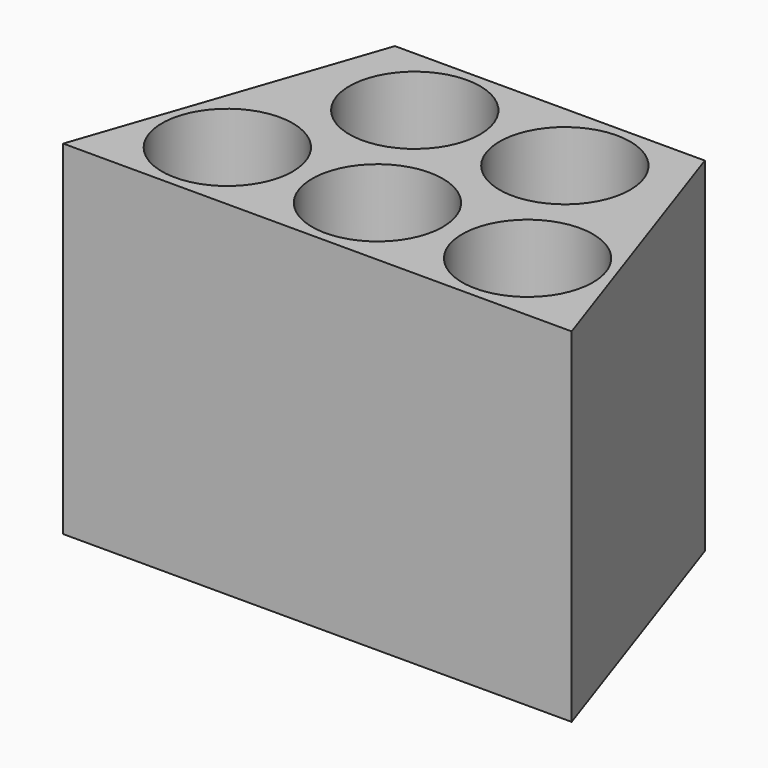
from build123d import *

# Parameters (mm, degrees)
SKETCH_R     = 13.5
PAD_DEPTH    = 71
PAD001_DEPTH = 3


with BuildPart() as body:
    # Sketch → Pad (new body)
    with BuildSketch(Plane.XY):
        Polygon((-52.5, -30), (52.5, -30), (32, 30), (-32, 30), align=None)
        with Locations((-15.5, 14.5)):
            Circle(SKETCH_R, mode=Mode.SUBTRACT)
        with Locations((15.5, 14.5)):
            Circle(SKETCH_R, mode=Mode.SUBTRACT)
        with Locations((31, -14.5)):
            Circle(SKETCH_R, mode=Mode.SUBTRACT)
        with Locations((0, -14.5)):
            Circle(SKETCH_R, mode=Mode.SUBTRACT)
        with Locations((-31, -14.5)):
            Circle(SKETCH_R, mode=Mode.SUBTRACT)
    extrude(amount=PAD_DEPTH)


with BuildPart() as body001:
    # Sketch001 → Pad001 (new body)
    with BuildSketch(Plane.XY):
        with BuildLine():
            ThreePointArc((-31.593551, 5.426425), (-41.014266, -17.620126), (-16.500017, -21.972711))
            Line((-10.500017, -21.972711), (-16.500017, -21.972711))
            ThreePointArc((-10.500017, -21.972711), (0, -25.90003), (10.500017, -21.972711))
            Line((16.500017, -21.972711), (10.500017, -21.972711))
            ThreePointArc((16.500017, -21.972711), (40.967281, -17.70481), (31.778746, 5.369695))
            Line((29.274294, 10.822009), (31.778746, 5.369695))
            ThreePointArc((29.274294, 10.822009), (21.33264, 27.451694), (3, 25.572696))
            Line((-3, 25.572696), (3, 25.572696))
            ThreePointArc((-3, 25.572696), (-21.267054, 27.488312), (-29.298744, 10.970237))
            Line((-31.593551, 5.426425), (-29.298744, 10.970237))
        make_face()
        with BuildLine():
            ThreePointArc((-20.625049, 2), (-38.58257, -16.834989), (-13.5, -9.900001))
            ThreePointArc((-13.5, -9.900001), (-1.4e-05, -23.40003), (13.5, -9.900028))
            ThreePointArc((13.5, -9.900028), (38.582577, -16.834978), (20.625049, 2))
            Line((20.603492, 2.02), (20.625049, 2))
            ThreePointArc((20.603492, 2.02), (20.070877, 25.292946), (0, 13.5))
            ThreePointArc((0, 13.5), (-20.070877, 25.292946), (-20.603492, 2.02))
            Line((-20.625049, 2), (-20.603492, 2.02))
        make_face(mode=Mode.SUBTRACT)
    extrude(amount=PAD001_DEPTH)


solid = Compound([body.part, body001.part])
